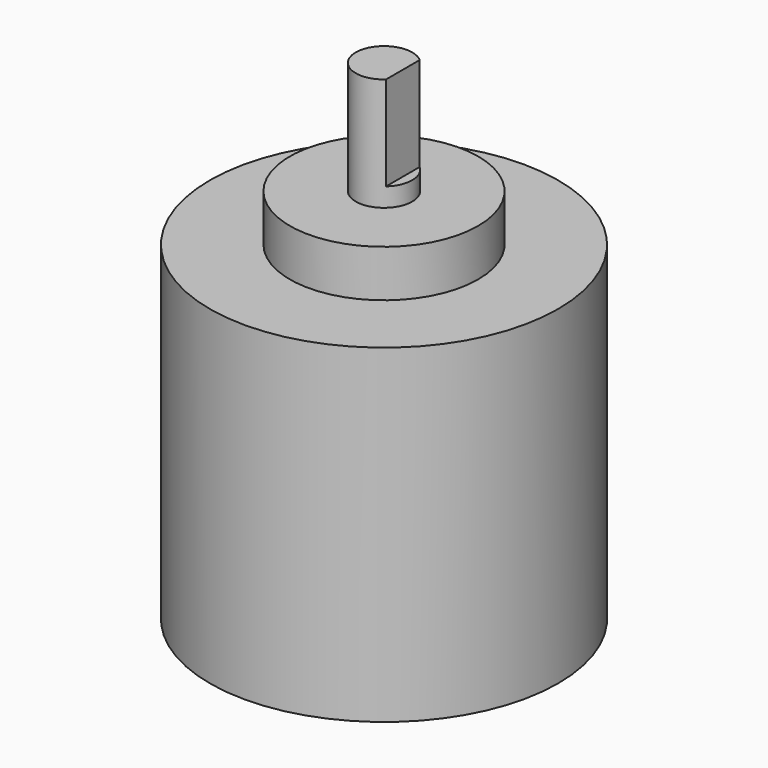
from build123d import *

# Parameters (mm, degrees)
BOX_W             = 10
BOX_H             = 10
BOX_DEPTH         = 10
CYLINDER001_R     = 10
CYLINDER001_DEPTH = 5
CYLINDER002_R     = 3
CYLINDER002_DEPTH = 12
CYLINDER_R        = 18.5
CYLINDER_DEPTH    = 35


with BuildPart() as cube:
    # Box → Box (new body)
    with BuildSketch(Plane(origin=(2, -5, 7), x_dir=(1, 0, 0), z_dir=(0, 0, 1))):
        with Locations((5, 5)):
            Rectangle(BOX_W, BOX_H)
    extrude(amount=BOX_DEPTH)


with BuildPart() as cylinder001:
    # Cylinder001 → Cylinder001 (new body)
    with BuildSketch(Plane.XY):
        Circle(CYLINDER001_R)
    extrude(amount=CYLINDER001_DEPTH)


with BuildPart() as cylinder002:
    # Cylinder002 → Cylinder002 (new body)
    with BuildSketch(Plane.XY.offset(5)):
        Circle(CYLINDER002_R)
    extrude(amount=CYLINDER002_DEPTH)


with BuildPart() as cut:
    # Cylinder → Cylinder (new body)
    with BuildSketch(Plane.XY.offset(-35)):
        Circle(CYLINDER_R)
    extrude(amount=CYLINDER_DEPTH)

    # Fusion: union Cylinder001, Cylinder002
    add(cylinder001.part)
    add(cylinder002.part)

    # Cut: cut Cube
    add(cube.part, mode=Mode.SUBTRACT)


solid = cut.part
